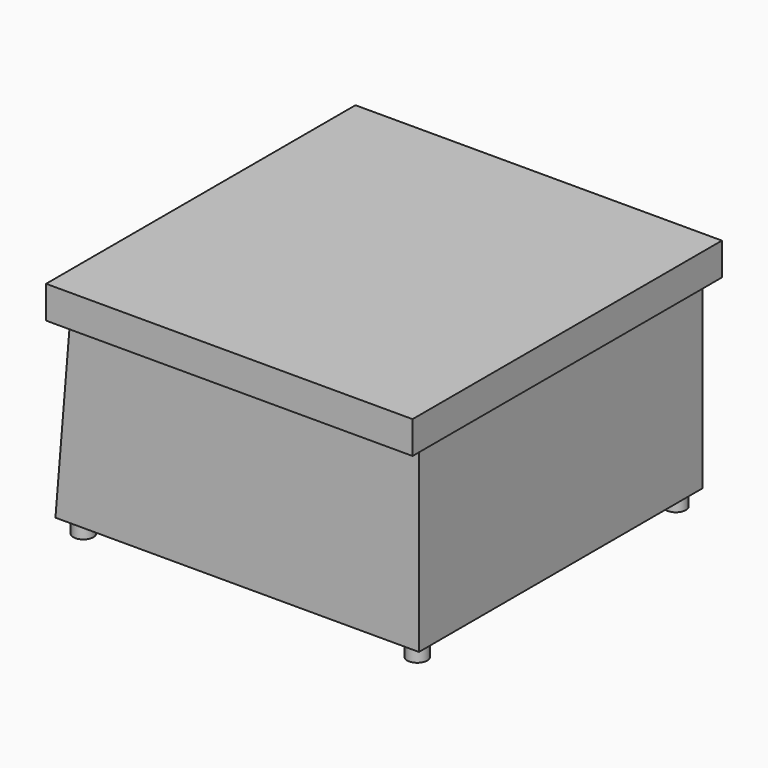
from build123d import *

# Parameters (mm, degrees)
F1_DEPTH = 76.2
F3_DEPTH = 69.85
F4_W     = 3.953986
F4_H     = 5.582094


with BuildPart() as f1:
    # F0 (on Front) → F1 (new body, symmetric)
    with BuildSketch(Plane.XZ):
        Polygon((72.218344, 56.867573), (-72.218329, 56.867573), (-72.218329, 44.075277), (-60.506084, 44.075277), (70.125043, 44.075277), (72.218344, 44.075277), align=None)
    extrude(amount=F1_DEPTH, both=True)

    # F2 (on Front) → F3 (join, symmetric)
    with BuildSketch(Plane.XZ):
        Polygon((69.659874, 44.307865), (-67.799173, 43.610103), (-73.613852, -27.328998), (69.659874, -27.328998), align=None)
    extrude(amount=F3_DEPTH, both=True)


with BuildPart() as f5:
    # F4 (on Front) → F5 (revolve)
    with BuildSketch(Plane.XZ):
        with Locations((-67.217704, -30.35263)):
            Rectangle(F4_W, F4_H)
    revolve(axis=Axis((-65.240711, 0, -29.654872), (0, 0, -1)))


with BuildPart() as f6_1:
    # F6: copy of F5
    add(f5.part.moved(Location((-2.032, -64.008, 0))))


with BuildPart() as f5_1:
    # F7: moved
    add(f5.part.moved(Location((-2.54, 64.008, 0))))


with BuildPart() as f8_1:
    # F8: copy of F5
    add(f5_1.part.moved(Location((131.572, 0, 0))))


with BuildPart() as f9_1:
    # F9: copy of F6_1
    add(f6_1.part.moved(Location((131.572, 0, 0))))


solid = Compound([f1.part, f6_1.part, f5_1.part, f8_1.part, f9_1.part])
